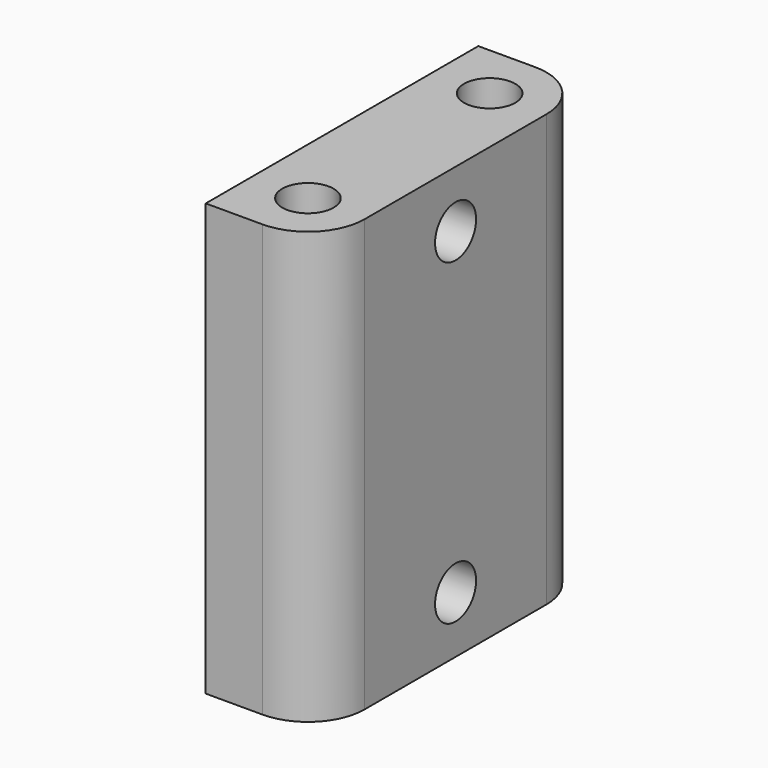
from build123d import *

# Parameters (mm, degrees)
F0_W     = 9.525
F0_H     = 28.575
F0_R     = 2.15265
F1_DEPTH = 36.195
F2_R     = 2.15265
F3_DEPTH = 9.525
F4_R     = 4.7625
F5_W     = 11.45515
F5_H     = 3.175
F6_DEPTH = 25.4
F8_DEPTH = 3.175


with BuildPart() as f1:
    # F0 (on Top) → F1 (new body)
    with BuildSketch(Plane.XY):
        with Locations((-4.7625, -14.2875)):
            Rectangle(F0_W, F0_H)
        with Locations((-4.7625, -23.8125)):
            Circle(F0_R, mode=Mode.SUBTRACT)
        with Locations((-4.7625, -4.7625)):
            Circle(F0_R, mode=Mode.SUBTRACT)
    extrude(amount=F1_DEPTH)

    # F2 (on face) → F3 (cut, through all)
    with BuildSketch(Plane.YZ):
        with Locations((-14.2875, 31.4325)):
            Circle(F2_R)
        with Locations((-14.2875, 4.7625)):
            Circle(F2_R)
    extrude(amount=-F3_DEPTH, mode=Mode.SUBTRACT)

    # F4
    f4_edges = [f1.edges().sort_by_distance(p)[0] for p in [
        (0, -28.575, 18.0975),
        (0, 0, 18.0975),
    ]]
    fillet(f4_edges, radius=F4_R)

    # F5 (on face) → F6 (join)
    with BuildSketch(Plane(origin=(-9.525, 0, 0), x_dir=(0, -1, 0), z_dir=(-1, 0, 0))):
        with Locations((14.2875, 25.0825)):
            Rectangle(F5_W, F5_H)
    extrude(amount=F6_DEPTH)

    # F7 (on face) → F8 (cut, through all)
    with BuildSketch(Plane.XY.offset(26.67)):
        Polygon((-12.7, -8.559925), (-34.925, -8.559925), (-34.925, -20.015075), (-12.7, -20.015075), (-17.077984, -16.377956), (-17.077984, -12.197044), align=None)
    extrude(amount=-F8_DEPTH, mode=Mode.SUBTRACT)


solid = f1.part
